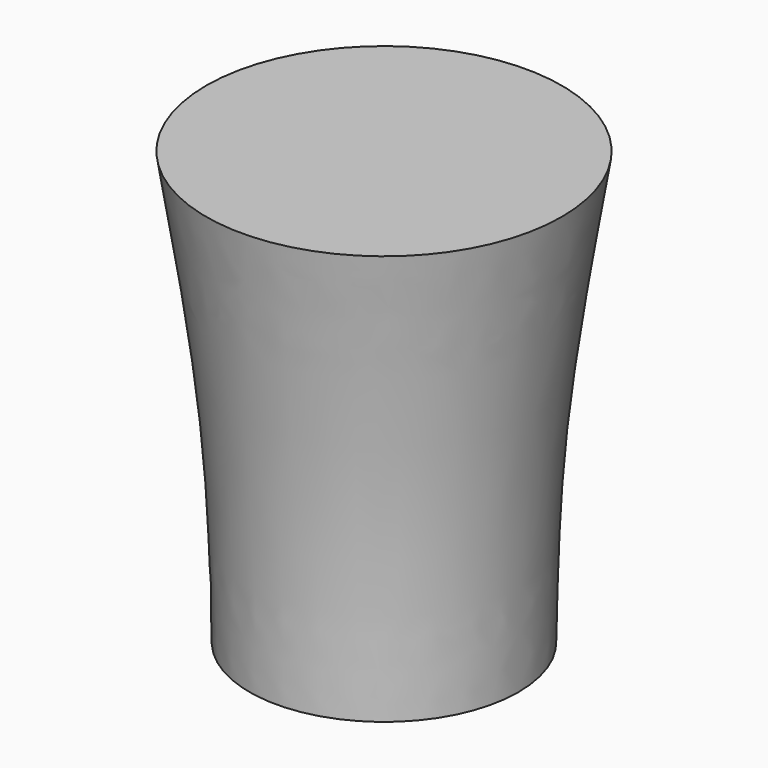
from build123d import *


with BuildPart() as f1:
    # F0 (on Front) → F1 (revolve)
    with BuildSketch(Plane.XZ):
        with BuildLine():
            Line((0, 0), (28, 0))
            add(Edge.make_bspline(
                [(28, 0), (28.2639793617, 12.9507617395), (28.8248941836, 40.469103201), (34.170276844, 72.8554236778), (37, 90)],
                knots=[0, 0, 0, 0, 0.4706229028, 1, 1, 1, 1], degree=3))
            Line((37, 90), (0, 90))
            Line((0, 90), (0, 0))
        make_face()
    revolve(axis=Axis((0, 0, 45), (0, 0, 1)))


solid = f1.part
